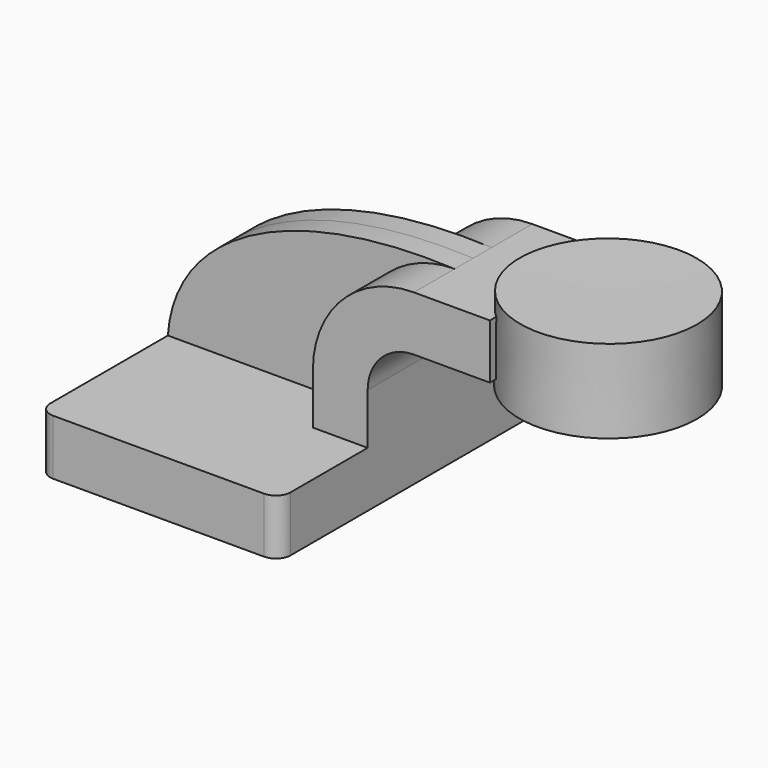
from build123d import *

# Parameters (mm, degrees)
F1_DEPTH = 63.5
F2_DEPTH = 25.4
F3_DEPTH = 7.9375
F5_R     = 5.08


with BuildPart() as f1:
    # F0 (on Front) → F1 (new body, symmetric)
    with BuildSketch(Plane.XZ):
        Polygon((29.4945527817, 9.525), (-34.2594462869, 9.525), (-34.2594462869, -9.525), (48.2905537131, -9.525), (48.2905537131, 9.525), align=None)
    extrude(amount=F1_DEPTH, both=True)

    # F0 (on Front) → F2 (join, symmetric)
    with BuildSketch(Plane.XZ):
        with BuildLine():
            Line((29.4945527817, 27.0002), (29.4945527817, 9.525))
            Line((29.4945527817, 9.525), (48.2905537131, 9.525))
            Line((48.2905537131, 9.525), (48.2905537131, 27.0002))
            ThreePointArc((48.2905537131, 27.0002), (52.9402335618, 38.2255201513), (64.1655537131, 42.8752))
            Line((64.1655537131, 42.8752), (90.2585908771, 42.8752))
            Line((90.2585908771, 42.8752), (90.2585908771, 61.6712009314))
            Line((90.2585908771, 61.6712009314), (64.1655537131, 61.6712009314))
            ThreePointArc((64.1655537131, 61.6712009314), (39.649453844, 51.5162998691), (29.4945527817, 27.0002))
        make_face()
    extrude(amount=F2_DEPTH, both=True)

    # F0 (on Front) → F3 (join, symmetric)
    with BuildSketch(Plane.XZ):
        with BuildLine():
            add(Edge.make_bspline(
                [(-34.2594462869, 9.525), (-32.0006241091, 42.9277569056), (6.9947489537, 64.2252266407), (64.1655537131, 61.6712009314)],
                knots=[0, 0, 0, 0, 111.3853980402, 111.3853980402, 111.3853980402, 111.3853980402], degree=3))
            Line((-34.2594462869, 9.525), (29.4945527817, 9.525))
            Line((29.4945527817, 9.525), (29.4945527817, 27.0002))
            ThreePointArc((29.4945527817, 27.0002), (39.649453844, 51.5162998691), (64.1655537131, 61.6712009314))
        make_face()
    extrude(amount=F3_DEPTH, both=True)

    # F0 (on Front) → F4 (revolve)
    with BuildSketch(Plane.XZ):
        Polygon((110.6271635748, 66.675), (110.6018233776, 61.6712009314), (110.4824542999, 38.1), (141.0585908771, 38.1), (141.0585908771, 66.675), align=None)
    revolve(axis=Axis((110.5548089374, 0, 52.3875), (0.0050641267, 0, 0.9999871772)))

    # F5
    f5_edges = [f1.edges().sort_by_distance(p)[0] for p in [
        (48.290554, 63.5, 0),
        (48.290554, -63.5, 0),
        (-34.259446, -63.5, 0),
        (-34.259446, 63.5, 0),
    ]]
    fillet(f5_edges, radius=F5_R)


solid = f1.part
